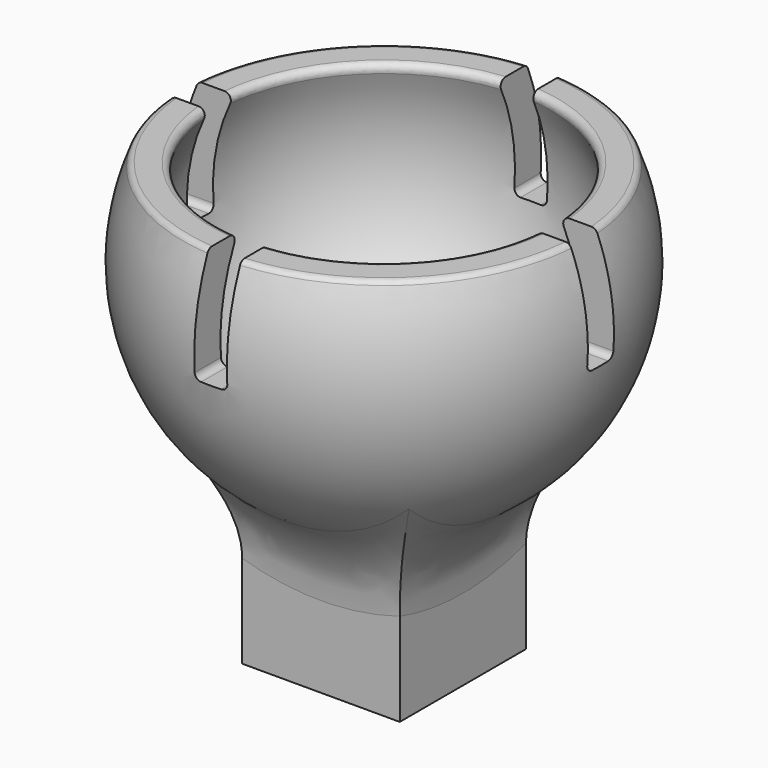
from build123d import *

# Parameters (mm, degrees)
BOX_W           = 30
BOX_H           = 30
BOX_DEPTH       = 30
SKETCH_W        = 7.25
SKETCH_H        = 7.25
PAD_DEPTH       = 16
SKETCH006_R     = 1.5
POCKET_DEPTH    = 20.001
SKETCH005_W     = 30.611846
SKETCH005_H     = 1.5
POCKET001_DEPTH = 5
SKETCH004_W     = 1.5
SKETCH004_H     = 27.596146
POCKET002_DEPTH = 5
FILLET_R        = 0.29
FILLET001_R     = 5


with BuildPart() as cube:
    # Box → Box (new body)
    with BuildSketch(Plane(origin=(-15, -15, 20), x_dir=(1, 0, 0), z_dir=(0, 0, 1))):
        with Locations((15, 15)):
            Rectangle(BOX_W, BOX_H)
    extrude(amount=BOX_DEPTH)


with BuildPart() as sphere:
    # Sphere → Sphere (revolve)
    with BuildSketch(Plane(origin=(0, 0, 16), x_dir=(1, 0, 0), z_dir=(0, -1, 0))):
        with BuildLine():
            ThreePointArc((0, -8.5), (8.5, 0), (0, 8.5))
            Line((0, 8.5), (0, -8.5))
        make_face()
    revolve(axis=Axis((0, 0, 16), (0, 0, 1)))


with BuildPart() as fillet001:
    # Sketch → Pad (new body)
    with BuildSketch(Plane.XY):
        Rectangle(SKETCH_W, SKETCH_H)
    extrude(amount=PAD_DEPTH)

    # Sketch003 → Revolution (revolve)
    with BuildSketch(Plane.XY.offset(16)):
        with BuildLine():
            ThreePointArc((10, 0), (0, 10), (-10, 0))
            Line((-10, 0), (10, 0))
        make_face()
    revolve(axis=Axis((0, 0, 16), (1, 0, 0)))

    # Cut: cut Sphere
    add(sphere.part, mode=Mode.SUBTRACT)

    # Cut001: cut Cube
    add(cube.part, mode=Mode.SUBTRACT)

    # Sketch006 → Pocket (cut, through all)
    with BuildSketch(Plane.XY.offset(20)):
        Circle(SKETCH006_R)
    extrude(amount=-POCKET_DEPTH, mode=Mode.SUBTRACT)

    # Sketch005 → Pocket001 (cut)
    with BuildSketch(Plane.XY.offset(20)):
        Rectangle(SKETCH005_W, SKETCH005_H)
    extrude(amount=-POCKET001_DEPTH, mode=Mode.SUBTRACT)

    # Sketch004 → Pocket002 (cut)
    with BuildSketch(Plane.XY.offset(20)):
        Rectangle(SKETCH004_W, SKETCH004_H)
    extrude(amount=-POCKET002_DEPTH, mode=Mode.SUBTRACT)

    # Fillet
    fillet_edges = [fillet001.edges().sort_by_distance(p)[0] for p in [
        (-5.303301, 5.303301, 20),
        (5.303301, 5.303301, 20),
        (5.303301, -5.303301, 20),
        (-5.303301, -5.303301, 20),
        (-6.480741, 6.480741, 20),
        (-6.480741, -6.480741, 20),
        (6.480741, -6.480741, 20),
        (6.480741, 6.480741, 20),
        (0.75, 9.164577, 15),
        (-0.75, 9.164577, 15),
        (-9.164577, -0.75, 15),
        (9.164577, -0.75, 15),
        (-9.164577, 0.75, 15),
        (0.75, -9.164577, 15),
        (9.164577, 0.75, 15),
        (-0.75, -9.164577, 15),
    ]]
    fillet(fillet_edges, radius=FILLET_R)

    # Fillet001
    fillet001_edges = [fillet001.edges().sort_by_distance(p)[0] for p in [
        (-3.625, 0, 6.680162),
        (0, 3.625, 6.680162),
        (3.625, 0, 6.680162),
        (0, -3.625, 6.680162),
    ]]
    fillet(fillet001_edges, radius=FILLET001_R)


solid = fillet001.part
